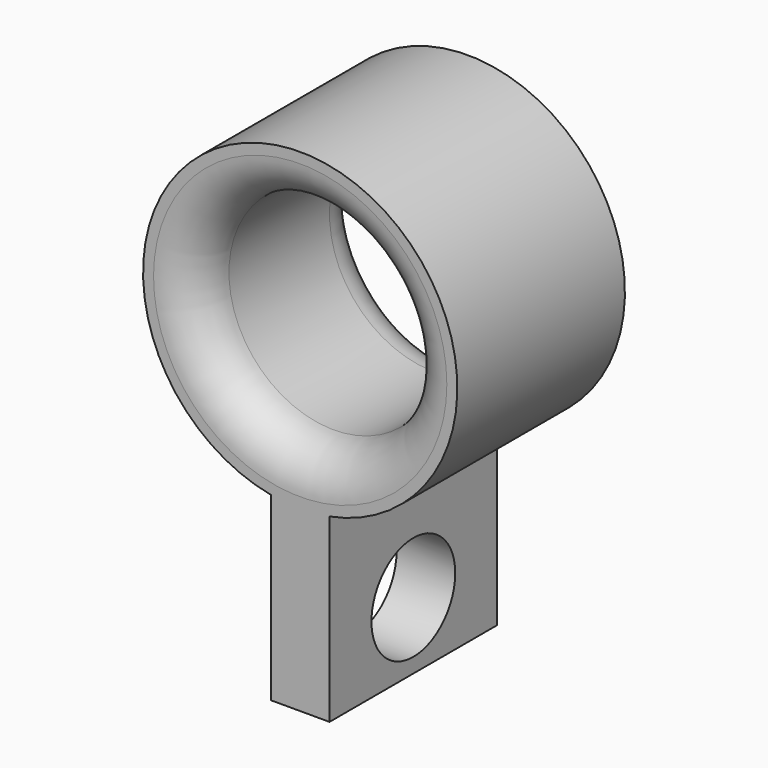
from build123d import *

# Parameters (mm, degrees)
F0_R     = 4.7625
F0_R_2   = 3.175
F1_DEPTH = 3.175
F2_W     = 6.35
F2_H     = 6.35
F2_R     = 1.5875
F3_DEPTH = 0.889
F4_R     = 1.27


with BuildPart() as f1:
    # F0 (on Front) → F1 (new body, symmetric)
    with BuildSketch(Plane.XZ):
        Circle(F0_R)
        Circle(F0_R_2, mode=Mode.SUBTRACT)
    extrude(amount=F1_DEPTH, both=True)

    # F2 (on Right) → F3 (join, symmetric)
    with BuildSketch(Plane.YZ):
        with Locations((0, -6.985)):
            Rectangle(F2_W, F2_H)
        with Locations((0, -8.128)):
            Circle(F2_R, mode=Mode.SUBTRACT)
    extrude(amount=F3_DEPTH, both=True)

    # F4
    f4_edges = [f1.edges().sort_by_distance(p)[0] for p in [
        (-3.175, -3.175, 0),
        (-3.175, 3.175, 0),
    ]]
    fillet(f4_edges, radius=F4_R)


solid = f1.part
